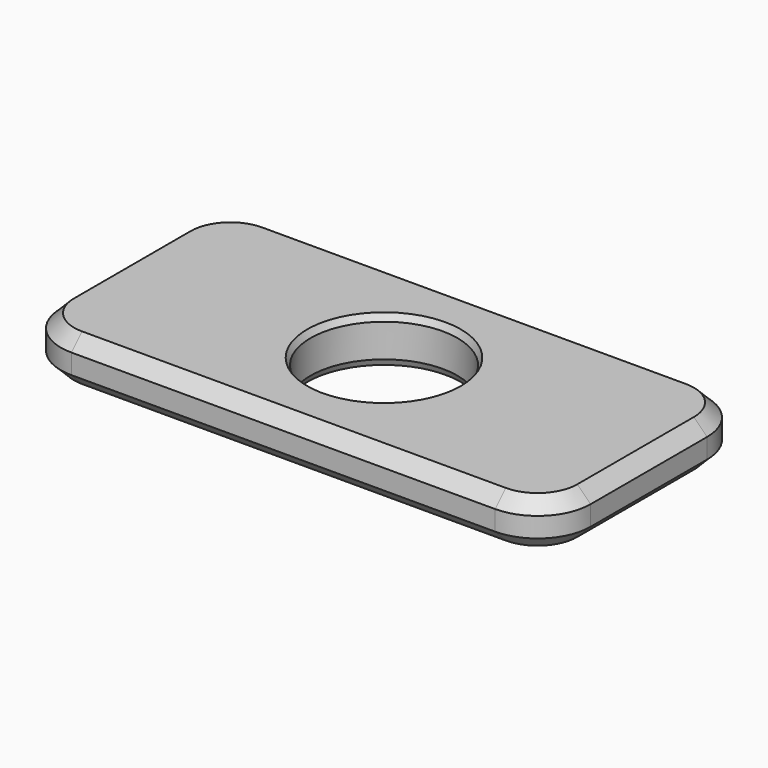
from build123d import *

# Parameters (mm, degrees)
F0_R     = 11.1
F1_DEPTH = 7
F2_SIZE  = 2
F3_SIZE2 = 0.5
F3_SIZE  = 1


with BuildPart() as f1:
    # F0 (on Top) → F1 (new body)
    with BuildSketch(Plane.XY):
        with BuildLine():
            Line((-32, -19), (32, -19))
            ThreePointArc((32, -19), (37.6568542495, -16.6568542495), (40, -11))
            Line((40, -11), (40, 11))
            ThreePointArc((40, 11), (37.6568542495, 16.6568542495), (32, 19))
            Line((32, 19), (-32, 19))
            ThreePointArc((-32, 19), (-37.6568542495, 16.6568542495), (-40, 11))
            Line((-40, 11), (-40, -11))
            ThreePointArc((-40, -11), (-37.6568542495, -16.6568542495), (-32, -19))
        make_face()
        Circle(F0_R, mode=Mode.SUBTRACT)
    extrude(amount=F1_DEPTH)

    # F2
    f2_edges = [f1.edges().sort_by_distance(p)[0] for p in [
        (0, -19, 7),
        (0, -19, 0),
    ]]
    chamfer(f2_edges, length=F2_SIZE)

    # F3
    f3_edges = [f1.edges().sort_by_distance(p)[0] for p in [
        (-11.1, 0, 7),
        (-11.1, 0, 0),
    ]]
    f3_side = f1.faces().sort_by_distance((-11.1, 0, 3.5))[0]
    chamfer(f3_edges, length=F3_SIZE, length2=F3_SIZE2, reference=f3_side)


solid = f1.part
